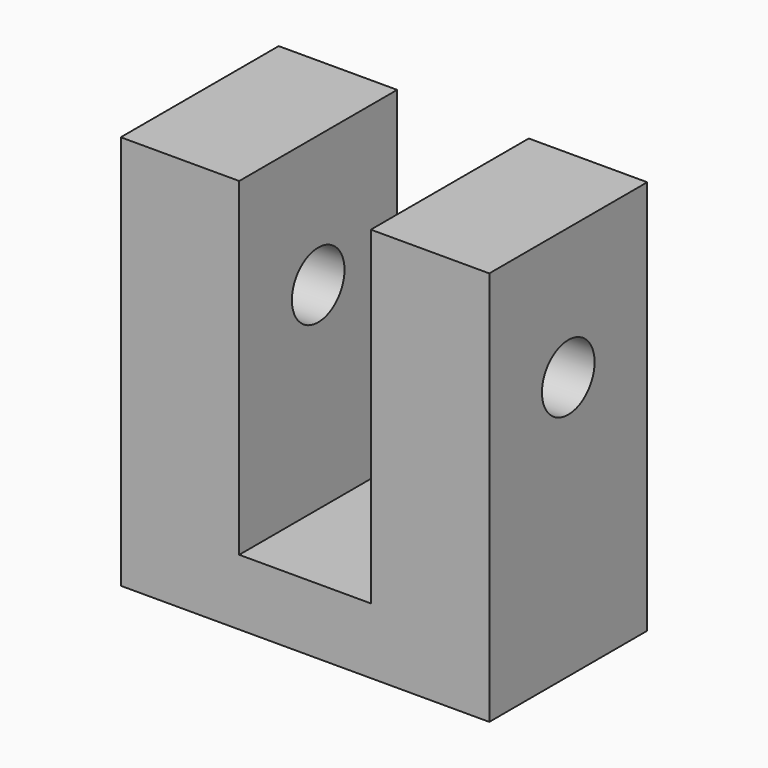
from build123d import *

# Parameters (mm, degrees)
F1_DEPTH = 0.375
F2_R     = 0.125
F3_DEPTH = 25
F4_R     = 0.125
F5_DEPTH = 0.5


with BuildPart() as f1:
    # F0 (on Front) → F1 (new body, symmetric)
    with BuildSketch(Plane.XZ):
        Polygon((-0.25, -20.374374), (-0.7, -20.374374), (-0.7, -21.874374), (0.7, -21.874374), (0.7, -20.374374), (0.25, -20.374374), (0.25, -21.624374), (-0.25, -21.624374), align=None)
    extrude(amount=F1_DEPTH, both=True)

    # F2 (on face) → F3 (cut)
    with BuildSketch(Plane.YZ.offset(0.7)):
        with Locations((0, -20.874374)):
            Circle(F2_R)
    extrude(amount=-F3_DEPTH, mode=Mode.SUBTRACT)

    # F4 (on face) → F5 (cut)
    with BuildSketch(Plane(origin=(0, 0, -21.874374), x_dir=(1, 0, 0), z_dir=(0, 0, -1))):
        with Locations((0.512, 0.125)):
            Circle(F4_R)
        with Locations((-0.512, 0.125)):
            Circle(F4_R)
    extrude(amount=-F5_DEPTH, mode=Mode.SUBTRACT)


solid = f1.part
